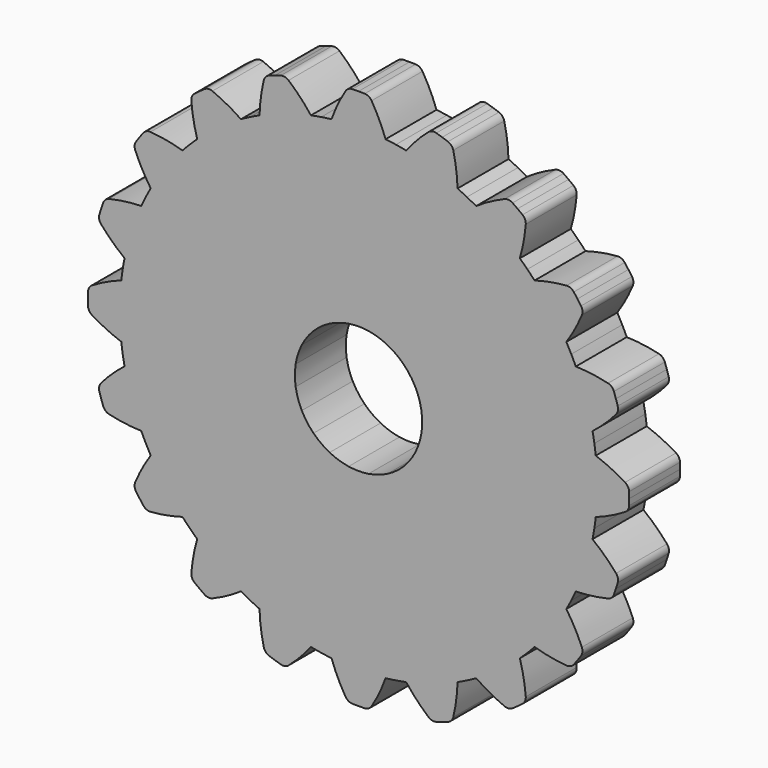
from build123d import *

# Parameters (mm, degrees)
F1_DEPTH = 10
F2_COUNT = 20


with BuildPart() as f1:
    # F0 (on Front) → F1 (new body)
    with BuildSketch(Plane.XZ):
        with BuildLine():
            ThreePointArc((-1.5643446504, 9.876883406), (0, 10), (1.5643446504, 9.876883406))
            Line((1.5643446504, 9.876883406), (5.866292439, 37.0383127723))
            ThreePointArc((5.866292439, 37.0383127723), (5.0569098853, 37.157471152), (4.2451205163, 37.2589445879))
            ThreePointArc((4.2451205163, 37.2589445879), (3.2638915205, 39.6187420421), (2.0468702967, 41.8660323454))
            ThreePointArc((2.0468702967, 41.8660323454), (1.5862366905, 42.3155461159), (0.9664334279, 42.4890104195))
            ThreePointArc((0.9664334279, 42.4890104195), (0.4832479543, 42.4972525161), (0, 42.5))
            ThreePointArc((0, 42.5), (-0.4832479543, 42.4972525161), (-0.9664334279, 42.4890104195))
            ThreePointArc((-0.9664334279, 42.4890104195), (-1.5862366905, 42.3155461159), (-2.0468702967, 41.8660323454))
            ThreePointArc((-2.0468702967, 41.8660323454), (-3.2638915205, 39.6187420421), (-4.2451205163, 37.2589445879))
            ThreePointArc((-4.2451205163, 37.2589445879), (-5.0569098853, 37.157471152), (-5.866292439, 37.0383127723))
            Line((-5.866292439, 37.0383127723), (-1.5643446504, 9.876883406))
        make_face()
    extrude(amount=F1_DEPTH)

    # F2: F1 ×20 about axis
    f2_axis = Axis((0, 0, 0), (0, 1, 0))


with BuildPart() as f1_1:
    add(f1.part)
    for i in range(1, F2_COUNT):
        add(f1.part.rotate(f2_axis, i * 360 / F2_COUNT))


solid = f1_1.part
